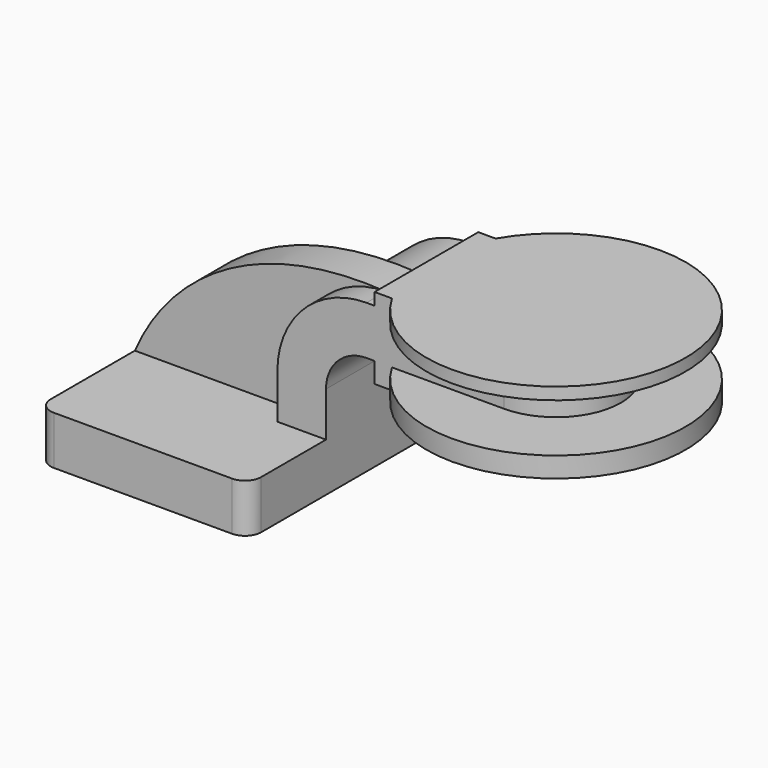
from build123d import *

# Parameters (mm, degrees)
F1_DEPTH = 63.5
F0_W     = 25.4
F0_H     = 19.05
F2_DEPTH = 25.4
F3_DEPTH = 15.875
F5_R     = 6.35


with BuildPart() as f1:
    # F0 (on Front) → F1 (new body, symmetric)
    with BuildSketch(Plane.XZ):
        Polygon((-41.275, 9.525), (-41.275, -9.525), (41.275, -9.525), (41.275, 9.525), (22.225, 9.525), align=None)
    extrude(amount=F1_DEPTH, both=True)

    # F0 (on Front) → F2 (join, symmetric)
    with BuildSketch(Plane.XZ):
        Polygon((60.325, 66.675), (60.325, 61.9252), (85.725, 61.9252), (85.725, 42.8752), (60.325, 42.8752), (60.325, 34.925), (111.125, 34.925), (111.125, 66.675), align=None)
        with BuildLine():
            Line((22.225, 9.525), (41.275, 9.525))
            Line((41.275, 9.525), (41.275, 27.0002))
            ThreePointArc((41.275, 27.0002), (45.92468, 38.22552), (57.15, 42.8752))
            Line((57.15, 42.8752), (60.325, 42.8752))
            Line((60.325, 42.8752), (60.325, 61.9252))
            Line((60.325, 61.9252), (57.15, 61.9252))
            ThreePointArc((57.15, 61.9252), (32.454296, 51.695904), (22.225, 27.0002))
            Line((22.225, 27.0002), (22.225, 9.525))
        make_face()
        with Locations((73.025, 52.4002)):
            Rectangle(F0_W, F0_H)
    extrude(amount=F2_DEPTH, both=True)

    # F0 (on Front) → F3 (join)
    with BuildSketch(Plane.XZ):
        with BuildLine():
            add(Edge.make_bspline(
                [(-41.275, 9.525), (-27.823856, 40.664345), (5.336885, 65.223247), (57.15, 61.9252)],
                knots=[0, 0, 0, 0, 111.504536, 111.504536, 111.504536, 111.504536], degree=3))
            Line((-41.275, 9.525), (22.225, 9.525))
            Line((22.225, 9.525), (22.225, 27.0002))
            ThreePointArc((22.225, 27.0002), (32.454296, 51.695904), (57.15, 61.9252))
        make_face()
    extrude(amount=F3_DEPTH)

    # F0 (on Front) → F4 (revolve)
    with BuildSketch(Plane.XZ):
        Polygon((60.325, 66.675), (60.325, 61.9252), (85.725, 61.9252), (85.725, 42.8752), (60.325, 42.8752), (60.325, 34.925), (111.125, 34.925), (111.125, 66.675), align=None)
    revolve(axis=Axis((111.125, 0, 50.8), (0, 0, 1)))

    # F5
    f5_edges = [f1.edges().sort_by_distance(p)[0] for p in [
        (-41.275, -63.5, 0),
        (41.275, -63.5, 0),
        (41.275, 63.5, 0),
        (-41.275, 63.5, 0),
    ]]
    fillet(f5_edges, radius=F5_R)


solid = f1.part
